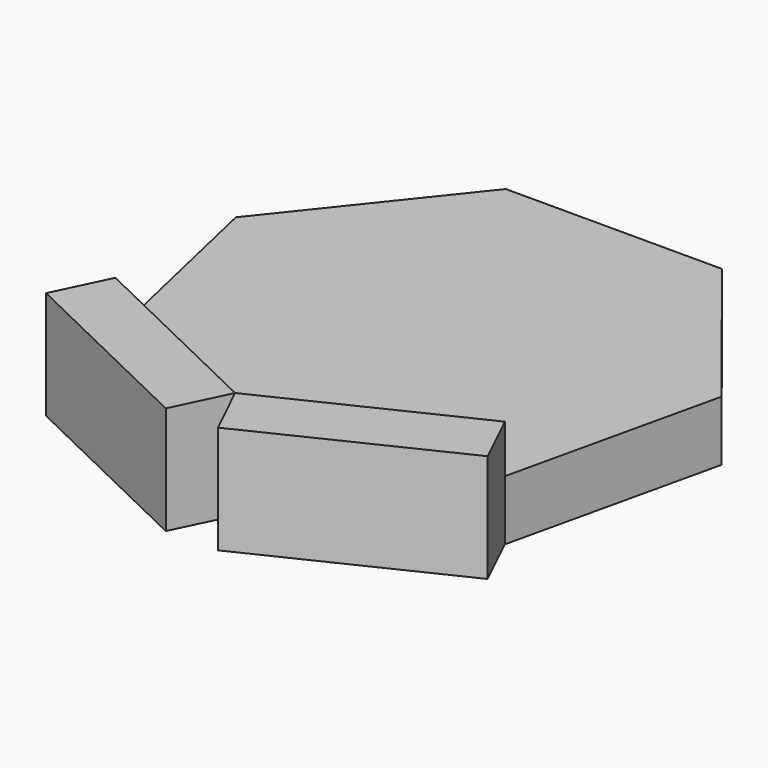
from build123d import *

# Parameters (mm, degrees)
F1_DEPTH = 63.5
F2_W     = 228.6
F2_H     = 114.3
F3_DEPTH = 63.5
F4_W     = 228.6
F4_H     = 114.3
F5_DEPTH = 63.5


with BuildPart() as f1:
    # F0 (on Top) → F1 (new body)
    with BuildSketch(Plane.XY):
        Polygon((114.3, 237.3463956282), (-114.3, 237.3463956282), (-256.8297687049, 58.619718736), (-205.9614832025, -164.2488019887), (0, -263.434624751), (205.9614832025, -164.2488019887), (256.8297687049, 58.619718736), align=None)
    extrude(amount=F1_DEPTH)

    # F2 (on face) → F3 (join)
    with BuildSketch(Plane(origin=(-102.9807416012, -213.8417133699, 0), x_dir=(0.9009688679, -0.4338837391, 0), z_dir=(-0.4338837391, -0.9009688679, 0))):
        with Locations((0, 57.15)):
            Rectangle(F2_W, F2_H)
    extrude(amount=F3_DEPTH)


with BuildPart() as f5:
    # F4 (on face) → F5 (new body)
    with BuildSketch(Plane(origin=(102.9807416012, -213.8417133699, 0), x_dir=(0.9009688679, 0.4338837391, 0), z_dir=(0.4338837391, -0.9009688679, 0))):
        with Locations((0, 57.15)):
            Rectangle(F4_W, F4_H)
    extrude(amount=F5_DEPTH)


solid = Compound([f1.part, f5.part])
